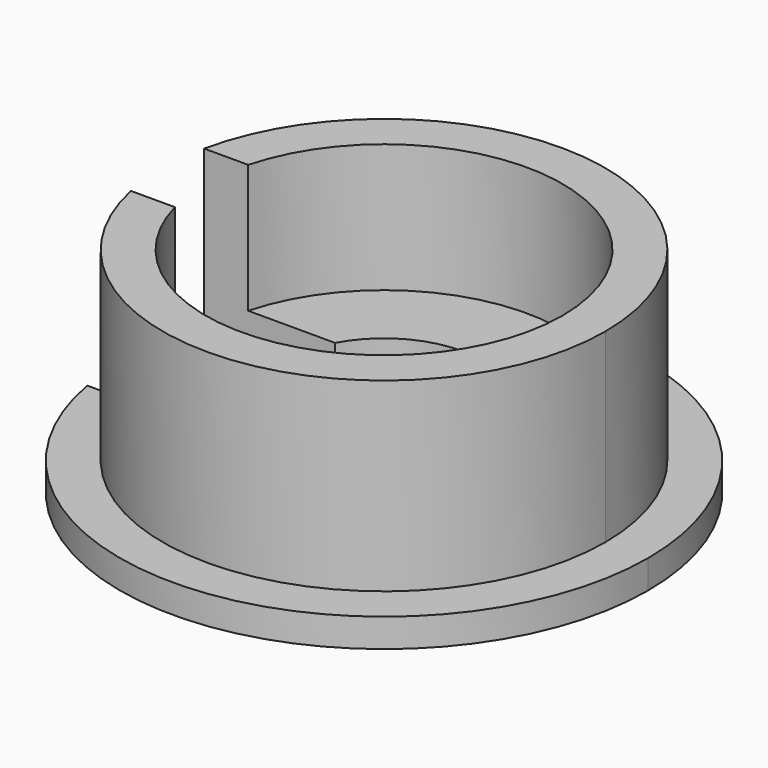
from build123d import *

# Parameters (mm, degrees)
F1_DEPTH = 2
F2_DEPTH = 15
F3_DEPTH = 6
F4_DEPTH = 23.4


with BuildPart() as f1:
    # F0 (on Top) → F1 (new body)
    with BuildSketch(Plane.XY):
        with BuildLine():
            ThreePointArc((-15.1641591538, -3.2090928871), (-15.5, 0), (-15.1641591538, 3.2090928871))
            Line((-15.1641591538, 3.2090928871), (-18.2195423335, 3.2090928871))
            ThreePointArc((-18.2195423335, 3.2090928871), (-18.5, 0), (-18.2195423335, -3.2090928871))
            Line((-18.2195423335, -3.2090928871), (-15.1641591538, -3.2090928871))
        make_face()
        with BuildLine():
            Line((-18.2195423335, 3.2090928871), (-15.1641591538, 3.2090928871))
            ThreePointArc((-15.1641591538, 3.2090928871), (1.6133091948, 15.415811151), (15.5, 0))
            ThreePointArc((15.5, 0), (1.6133091948, -15.415811151), (-15.1641591538, -3.2090928871))
            Line((-15.1641591538, -3.2090928871), (-18.2195423335, -3.2090928871))
            ThreePointArc((-18.2195423335, -3.2090928871), (1.610662415, -18.4297522117), (18.5, 0))
            ThreePointArc((18.5, 0), (1.610662415, 18.4297522117), (-18.2195423335, 3.2090928871))
        make_face()
    extrude(amount=F1_DEPTH)

    # F0 (on Top) → F2 (join)
    with BuildSketch(Plane.XY):
        with BuildLine():
            ThreePointArc((-12.0810480854, -3.2090928871), (-12.5, 0), (-12.0810480854, 3.2090928871))
            Line((-12.0810480854, 3.2090928871), (-15.1641591538, 3.2090928871))
            ThreePointArc((-15.1641591538, 3.2090928871), (-15.5, 0), (-15.1641591538, -3.2090928871))
            Line((-15.1641591538, -3.2090928871), (-12.0810480854, -3.2090928871))
        make_face()
        with BuildLine():
            Line((-15.1641591538, 3.2090928871), (-12.0810480854, 3.2090928871))
            ThreePointArc((-12.0810480854, 3.2090928871), (1.6181623733, 12.3948195039), (12.5, 0))
            ThreePointArc((12.5, 0), (1.6181623733, -12.3948195039), (-12.0810480854, -3.2090928871))
            Line((-12.0810480854, -3.2090928871), (-15.1641591538, -3.2090928871))
            ThreePointArc((-15.1641591538, -3.2090928871), (1.6133091948, -15.415811151), (15.5, 0))
            ThreePointArc((15.5, 0), (1.6133091948, 15.415811151), (-15.1641591538, 3.2090928871))
        make_face()
    extrude(amount=F2_DEPTH)

    # F0 (on Top) → F3 (join)
    with BuildSketch(Plane.XY):
        with BuildLine():
            ThreePointArc((-5.9951416032, -3.2090928871), (-6.8, 0), (-5.9951416032, 3.2090928871))
            Line((-5.9951416032, 3.2090928871), (-12.0810480854, 3.2090928871))
            ThreePointArc((-12.0810480854, 3.2090928871), (-12.5, 0), (-12.0810480854, -3.2090928871))
            Line((-12.0810480854, -3.2090928871), (-5.9951416032, -3.2090928871))
        make_face()
        with BuildLine():
            ThreePointArc((-5.9951416032, 3.2090928871), (1.6542425908, 6.595716902), (6.8, 0))
            ThreePointArc((6.8, 0), (1.6542425908, -6.595716902), (-5.9951416032, -3.2090928871))
            Line((-5.9951416032, -3.2090928871), (-12.0810480854, -3.2090928871))
            ThreePointArc((-12.0810480854, -3.2090928871), (1.6181623733, -12.3948195039), (12.5, 0))
            ThreePointArc((12.5, 0), (1.6181623733, 12.3948195039), (-12.0810480854, 3.2090928871))
            Line((-12.0810480854, 3.2090928871), (-5.9951416032, 3.2090928871))
        make_face()
    extrude(amount=F3_DEPTH)

    # F0 (on Top) → F4 (cut)
    with BuildSketch(Plane.XY):
        with BuildLine():
            ThreePointArc((-18.2195423335, -3.2090928871), (-18.5, 0), (-18.2195423335, 3.2090928871))
            Line((-18.2195423335, 3.2090928871), (-24.5871795341, 3.2090928871))
            Line((-24.5871795341, 3.2090928871), (-24.5871795341, -3.2090928871))
            Line((-24.5871795341, -3.2090928871), (-18.2195423335, -3.2090928871))
        make_face()
        with BuildLine():
            ThreePointArc((-5.9951416032, -3.2090928871), (-6.8, 0), (-5.9951416032, 3.2090928871))
            Line((-5.9951416032, 3.2090928871), (-12.0810480854, 3.2090928871))
            ThreePointArc((-12.0810480854, 3.2090928871), (-12.5, 0), (-12.0810480854, -3.2090928871))
            Line((-12.0810480854, -3.2090928871), (-5.9951416032, -3.2090928871))
        make_face()
        with BuildLine():
            ThreePointArc((-15.1641591538, -3.2090928871), (-15.5, 0), (-15.1641591538, 3.2090928871))
            Line((-15.1641591538, 3.2090928871), (-18.2195423335, 3.2090928871))
            ThreePointArc((-18.2195423335, 3.2090928871), (-18.5, 0), (-18.2195423335, -3.2090928871))
            Line((-18.2195423335, -3.2090928871), (-15.1641591538, -3.2090928871))
        make_face()
        with BuildLine():
            ThreePointArc((-12.0810480854, -3.2090928871), (-12.5, 0), (-12.0810480854, 3.2090928871))
            Line((-12.0810480854, 3.2090928871), (-15.1641591538, 3.2090928871))
            ThreePointArc((-15.1641591538, 3.2090928871), (-15.5, 0), (-15.1641591538, -3.2090928871))
            Line((-15.1641591538, -3.2090928871), (-12.0810480854, -3.2090928871))
        make_face()
    extrude(amount=F4_DEPTH, mode=Mode.SUBTRACT)


solid = f1.part
